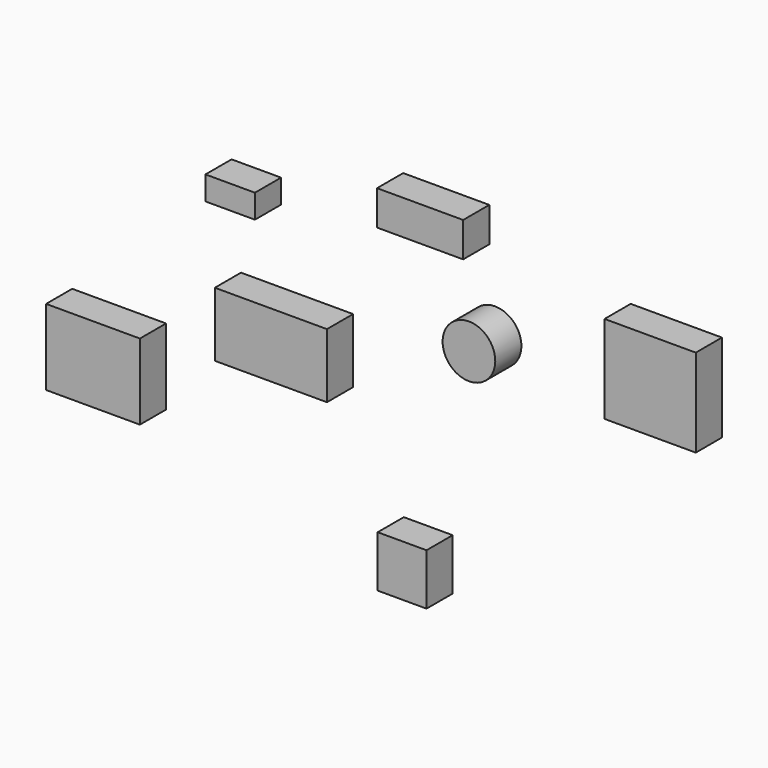
from build123d import *

# Parameters (mm, degrees)
F0_W     = 85.783288
F0_H     = 49.247804
F1_DEPTH = 25
F2_R     = 20.148595
F2_W     = 37.868068
F2_H     = 18.196344
F2_W_2   = 65.900273
F2_H_2   = 26.556827
F2_W_3   = 69.83462
F2_H_3   = 67.375664
F2_W_4   = 37.376281
F2_H_4   = 39.343454
F2_W_5   = 71.801812
F2_H_5   = 58.031585
F3_DEPTH = 25


with BuildPart() as f1:
    # F0 (on Front) → F1 (new body)
    with BuildSketch(Plane.XZ):
        with Locations((-42.891644, -11.33567)):
            Rectangle(F0_W, F0_H)
    extrude(amount=F1_DEPTH)


with BuildPart() as f3:
    # F2 (on Front) → F3 (new body)
    with BuildSketch(Plane.XZ):
        with Locations((108.650118, 33.674002)):
            Circle(F2_R)
        with Locations((-74.051045, 78.181267)):
            Rectangle(F2_W, F2_H)
        with Locations((71.273822, 107.442956)):
            Rectangle(F2_W_2, F2_H_2)
        with Locations((247.335777, 55.558784)):
            Rectangle(F2_W_3, F2_H_3)
        with Locations((57.50362, -130.584922)):
            Rectangle(F2_W_4, F2_H_4)
        with Locations((-179.048881, -68.618984)):
            Rectangle(F2_W_5, F2_H_5)
    extrude(amount=F3_DEPTH)


solid = Compound([f1.part, f3.part])
